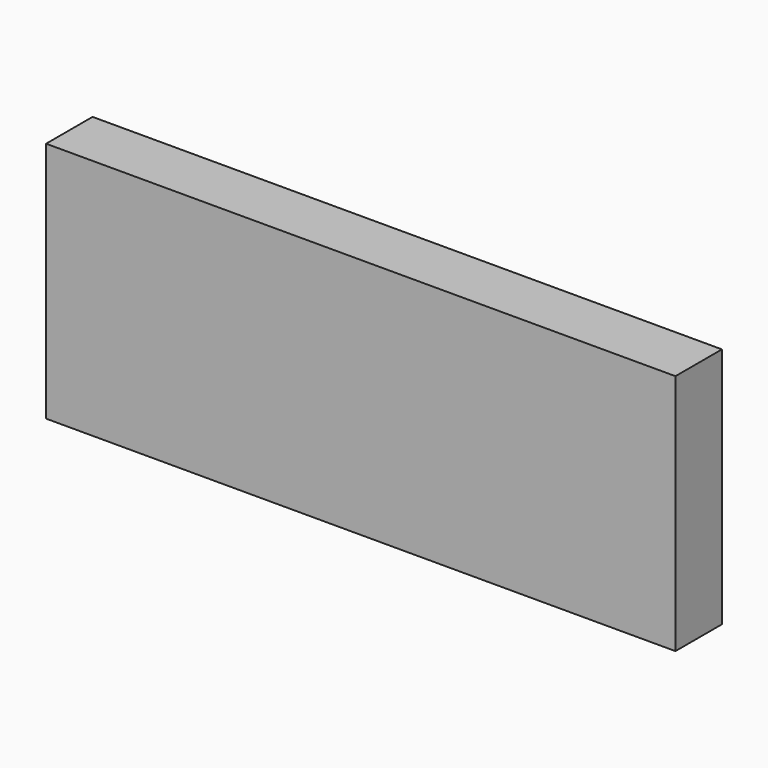
from build123d import *

# Parameters (mm, degrees)
SKETCH_W      = 130
SKETCH_H      = 12
EXTRUDE_DEPTH = 50


with BuildPart() as part:
    # Sketch → Extrude (new body)
    with BuildSketch(Plane.XY):
        Rectangle(SKETCH_W, SKETCH_H)
    extrude(amount=EXTRUDE_DEPTH)


solid = part.part
